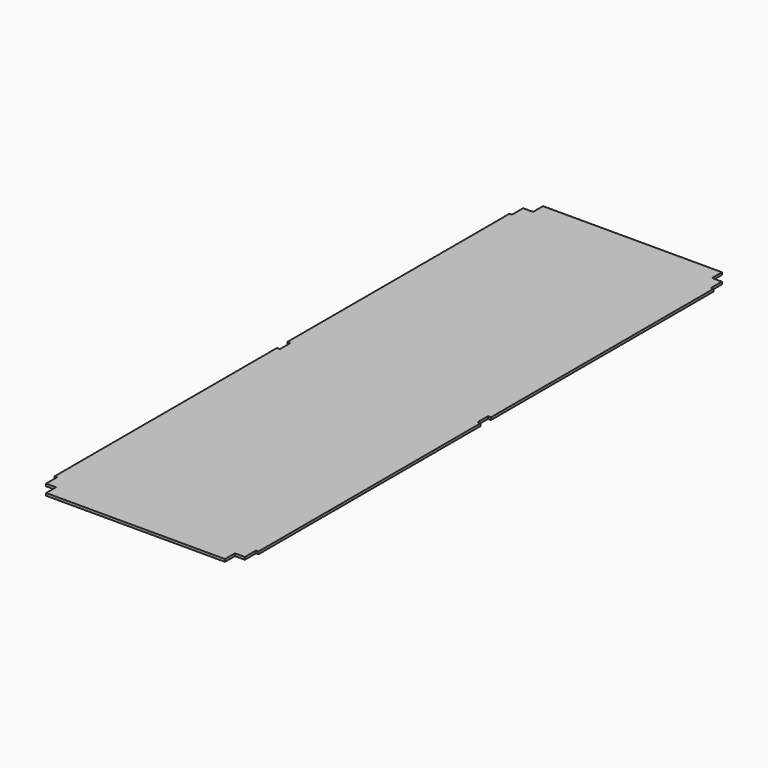
from build123d import *

# Parameters (mm, degrees)
F0_W      = 410
F0_H      = 1250
F1_DEPTH  = 5
F2_W      = 25
F2_H      = 25
F3_DEPTH  = 25
F4_W      = 25
F4_H      = 25
F5_DEPTH  = 25
F6_W      = 25
F6_H      = 25
F7_DEPTH  = 25
F8_W      = 25
F8_H      = 25
F9_DEPTH  = 25
F10_W     = 12
F10_H     = 26
F11_DEPTH = 25
F12_W     = 12
F12_H     = 26
F13_DEPTH = 25
F14_W     = 5
F14_H     = 28
F15_DEPTH = 25
F16_W     = 5
F16_H     = 28
F17_DEPTH = 25
F18_W     = 5
F18_H     = 28
F19_DEPTH = 25
F20_W     = 5
F20_H     = 28
F21_DEPTH = 25


with BuildPart() as f1:
    # F0 (on Top) → F1 (new body)
    with BuildSketch(Plane.XY):
        with Locations((205, 625)):
            Rectangle(F0_W, F0_H)
    extrude(amount=F1_DEPTH)

    # F2 (on face) → F3 (cut)
    with BuildSketch(Plane.XY.offset(5)):
        with Locations((12.5, 12.5)):
            Rectangle(F2_W, F2_H)
    extrude(amount=-F3_DEPTH, mode=Mode.SUBTRACT)

    # F4 (on face) → F5 (cut)
    with BuildSketch(Plane.XY.offset(5)):
        with Locations((397.5, 12.5)):
            Rectangle(F4_W, F4_H)
    extrude(amount=-F5_DEPTH, mode=Mode.SUBTRACT)

    # F6 (on face) → F7 (cut)
    with BuildSketch(Plane.XY.offset(5)):
        with Locations((397.5, 1237.5)):
            Rectangle(F6_W, F6_H)
    extrude(amount=-F7_DEPTH, mode=Mode.SUBTRACT)

    # F8 (on face) → F9 (cut)
    with BuildSketch(Plane.XY.offset(5)):
        with Locations((12.5, 1237.5)):
            Rectangle(F8_W, F8_H)
    extrude(amount=-F9_DEPTH, mode=Mode.SUBTRACT)

    # F10 (on face) → F11 (cut)
    with BuildSketch(Plane.XY.offset(5)):
        with Locations((0, 625)):
            Rectangle(F10_W, F10_H)
    extrude(amount=-F11_DEPTH, mode=Mode.SUBTRACT)

    # F12 (on face) → F13 (cut)
    with BuildSketch(Plane.XY.offset(5)):
        with Locations((410, 625)):
            Rectangle(F12_W, F12_H)
    extrude(amount=-F13_DEPTH, mode=Mode.SUBTRACT)

    # F14 (on face) → F15 (cut)
    with BuildSketch(Plane.XY.offset(5)):
        with Locations((407.5, 39)):
            Rectangle(F14_W, F14_H)
    extrude(amount=-F15_DEPTH, mode=Mode.SUBTRACT)

    # F16 (on face) → F17 (cut)
    with BuildSketch(Plane.XY.offset(5)):
        with Locations((407.5, 1211)):
            Rectangle(F16_W, F16_H)
    extrude(amount=-F17_DEPTH, mode=Mode.SUBTRACT)

    # F18 (on face) → F19 (cut)
    with BuildSketch(Plane.XY.offset(5)):
        with Locations((2.5, 1211)):
            Rectangle(F18_W, F18_H)
    extrude(amount=-F19_DEPTH, mode=Mode.SUBTRACT)

    # F20 (on face) → F21 (cut)
    with BuildSketch(Plane.XY.offset(5)):
        with Locations((2.5, 39)):
            Rectangle(F20_W, F20_H)
    extrude(amount=-F21_DEPTH, mode=Mode.SUBTRACT)


solid = f1.part
